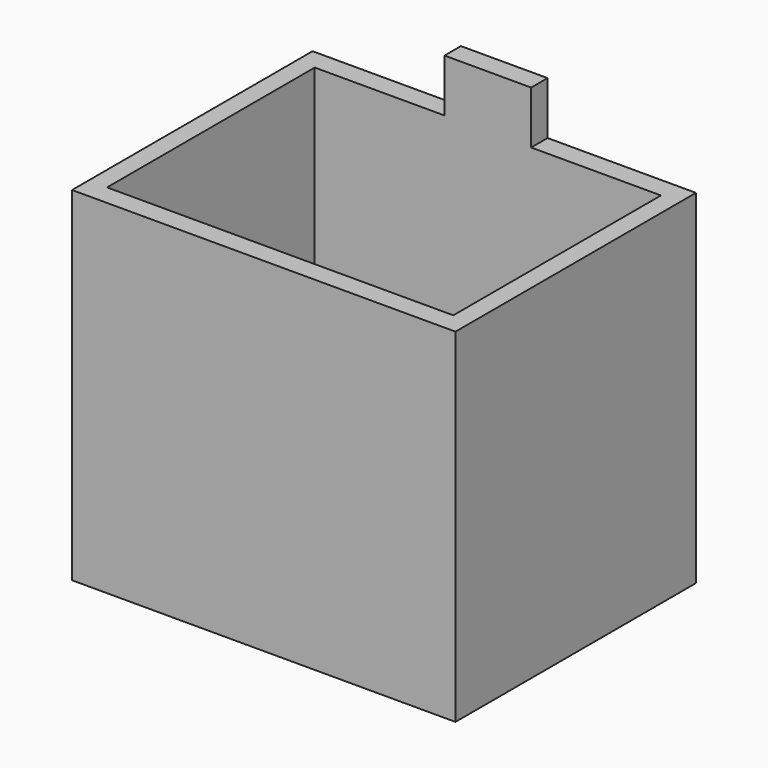
from build123d import *

# Parameters (mm, degrees)
F1_DEPTH = 71.12
F2_DEPTH = 2.54
F0_W     = 8.9689344168
F0_H     = 4.2472973967
F3_DEPTH = 82.042


with BuildPart() as f1:
    # F0 (on Top) → F1 (new body)
    with BuildSketch(Plane.XY):
        Polygon((39.6875, -31.115), (39.6875, 31.115), (8.9689344168, 31.115), (8.9689344168, 26.8677026033), (35.836905241, 26.8677026033), (35.836905241, -26.8677026033), (0, -26.8677026033), (0, -31.115), align=None)
        Polygon((-39.6875, -31.115), (0, -31.115), (0, -26.8677026033), (-35.836905241, -26.8677026033), (-35.836905241, 26.8677026033), (-8.9689344168, 26.8677026033), (-8.9689344168, 31.115), (-39.6875, 31.115), align=None)
    extrude(amount=F1_DEPTH)

    # F0 (on Top) → F2 (join)
    with BuildSketch(Plane.XY):
        Polygon((35.836905241, 26.8677026033), (8.9689344168, 26.8677026033), (0, 26.8677026033), (0, -26.8677026033), (35.836905241, -26.8677026033), align=None)
        Polygon((0, -26.8677026033), (0, 26.8677026033), (-8.9689344168, 26.8677026033), (-35.836905241, 26.8677026033), (-35.836905241, -26.8677026033), align=None)
    extrude(amount=F2_DEPTH)

    # F0 (on Top) → F3 (join)
    with BuildSketch(Plane.XY):
        with Locations((-4.4844672084, 28.9913513017)):
            Rectangle(F0_W, F0_H)
        with Locations((4.4844672084, 28.9913513017)):
            Rectangle(F0_W, F0_H)
    extrude(amount=F3_DEPTH)


solid = f1.part
